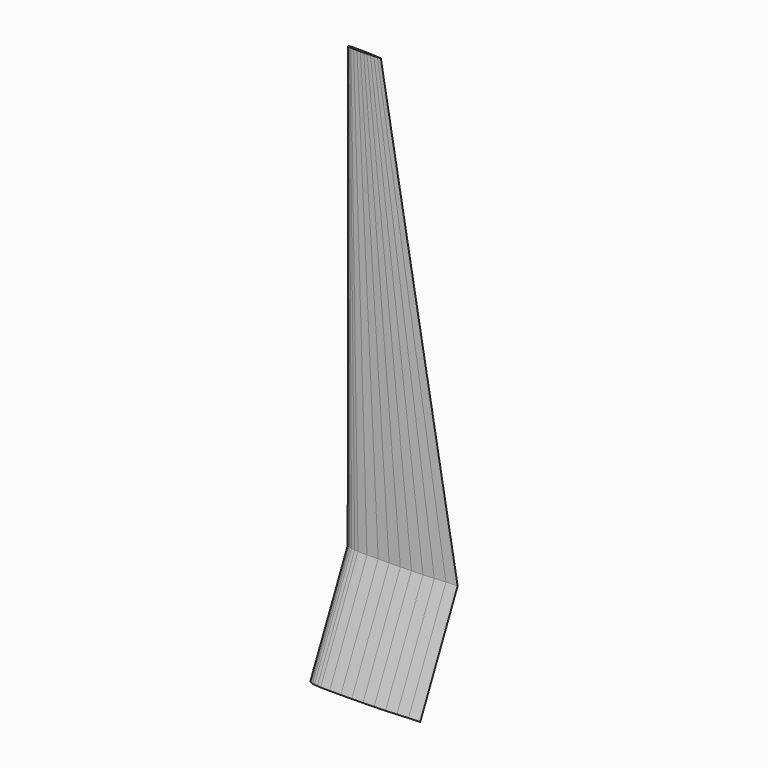
from build123d import *


with BuildPart() as f3:
    # F0 (on Top) → F3 section 0
    with BuildSketch(Plane.XY):
        with BuildLine():
            Line((25.4, -0.001455), (22.81751, 0.166512))
            Line((22.81751, 0.166512), (20.287512, 0.344977))
            Line((20.287512, 0.344977), (17.77562, 0.49516))
            Line((17.77562, 0.49516), (15.219171, 0.604156))
            Line((15.219171, 0.604156), (12.692447, 0.673517))
            Line((12.692447, 0.673517), (10.135998, 0.713151))
            Line((10.135998, 0.713151), (7.619184, 0.732969))
            Line((7.619184, 0.732969), (5.062734, 0.762695))
            Line((5.062734, 0.762695), (2.933788, 0.7116))
            Line((2.933788, 0.7116), (2.136214, 0.654492))
            Line((2.136214, 0.654492), (1.37156, 0.565414))
            Line((1.37156, 0.565414), (0.889012, 0.468913))
            Line((0.889012, 0.468913), (0.540092, 0.342719))
            ThreePointArc((0.540092, 0.342719), (0.251258, 0.200968), (0, 0))
            ThreePointArc((0, 0), (0.251235, -0.200997), (0.540053, -0.342781))
            Line((0.540053, -0.342781), (0.888958, -0.469015))
            Line((0.888958, -0.469015), (1.371495, -0.565571))
            Line((1.371495, -0.565571), (2.136139, -0.654736))
            Line((2.136139, -0.654736), (2.933707, -0.711936))
            Line((2.933707, -0.711936), (5.062647, -0.763275))
            Line((5.062647, -0.763275), (7.6191, -0.733842))
            Line((7.6191, -0.733842), (10.135916, -0.714313))
            Line((10.135916, -0.714313), (12.69237, -0.67497))
            Line((12.69237, -0.67497), (15.219101, -0.605899))
            Line((15.219101, -0.605899), (17.775563, -0.497196))
            Line((17.775563, -0.497196), (20.287473, -0.347301))
            Line((20.287473, -0.347301), (22.817491, -0.169126))
            Line((22.817491, -0.169126), (25.4, -0.001455))
        make_face()
    # F2 (on offset) → F3 section 1
    with BuildSketch(Plane.XY.offset(25.4)):
        with BuildLine():
            Line((7.602647, 6.856725), (10.1591, 6.886158))
            Line((10.1591, 6.886158), (12.675916, 6.905687))
            Line((12.675916, 6.905687), (15.23237, 6.94503))
            Line((15.23237, 6.94503), (17.759101, 7.014101))
            Line((17.759101, 7.014101), (20.315563, 7.122804))
            Line((20.315563, 7.122804), (22.827473, 7.272699))
            Line((22.827473, 7.272699), (25.357491, 7.450874))
            Line((25.357491, 7.450874), (27.94, 7.618545))
            Line((27.94, 7.618545), (25.35751, 7.786512))
            Line((25.35751, 7.786512), (22.827512, 7.964977))
            Line((22.827512, 7.964977), (20.31562, 8.11516))
            Line((20.31562, 8.11516), (17.759171, 8.224156))
            Line((17.759171, 8.224156), (15.232447, 8.293517))
            Line((15.232447, 8.293517), (12.675998, 8.333151))
            Line((12.675998, 8.333151), (10.159184, 8.352969))
            Line((10.159184, 8.352969), (7.602734, 8.382695))
            Line((7.602734, 8.382695), (5.473788, 8.3316))
            Line((5.473788, 8.3316), (4.676214, 8.274492))
            Line((4.676214, 8.274492), (3.91156, 8.185414))
            Line((3.91156, 8.185414), (3.429012, 8.088913))
            Line((3.429012, 8.088913), (3.080092, 7.962719))
            ThreePointArc((3.080092, 7.962719), (2.791258, 7.820968), (2.54, 7.62))
            ThreePointArc((2.54, 7.62), (2.791235, 7.419003), (3.080053, 7.277219))
            Line((3.080053, 7.277219), (3.428958, 7.150985))
            Line((3.428958, 7.150985), (3.911495, 7.054429))
            Line((3.911495, 7.054429), (4.676139, 6.965264))
            Line((4.676139, 6.965264), (5.473707, 6.908064))
            Line((5.473707, 6.908064), (7.602647, 6.856725))
        make_face()
    loft()

    # F5 (on offset) → F6 section 0
    with BuildSketch(Plane.XY.offset(127)):
        with BuildLine():
            Line((4.084847, 7.393458), (4.851783, 7.402288))
            Line((4.851783, 7.402288), (5.606828, 7.408147))
            Line((5.606828, 7.408147), (6.373764, 7.41995))
            Line((6.373764, 7.41995), (7.131783, 7.440671))
            Line((7.131783, 7.440671), (7.898722, 7.473282))
            Line((7.898722, 7.473282), (8.652295, 7.518251))
            Line((8.652295, 7.518251), (9.4113, 7.571703))
            Line((9.4113, 7.571703), (10.186053, 7.622005))
            Line((10.186053, 7.622005), (9.411306, 7.672395))
            Line((9.411306, 7.672395), (8.652307, 7.725934))
            Line((8.652307, 7.725934), (7.898739, 7.770989))
            Line((7.898739, 7.770989), (7.131804, 7.803688))
            Line((7.131804, 7.803688), (6.373787, 7.824496))
            Line((6.373787, 7.824496), (5.606852, 7.836386))
            Line((5.606852, 7.836386), (4.851808, 7.842332))
            Line((4.851808, 7.842332), (4.084873, 7.851249))
            Line((4.084873, 7.851249), (3.44619, 7.835921))
            Line((3.44619, 7.835921), (3.206917, 7.818788))
            Line((3.206917, 7.818788), (2.977521, 7.792065))
            Line((2.977521, 7.792065), (2.832757, 7.763115))
            Line((2.832757, 7.763115), (2.728081, 7.725257))
            ThreePointArc((2.728081, 7.725257), (2.64143, 7.682731), (2.566053, 7.622441))
            ThreePointArc((2.566053, 7.622441), (2.641424, 7.562142), (2.728069, 7.519607))
            Line((2.728069, 7.519607), (2.83274, 7.481737))
            Line((2.83274, 7.481737), (2.977502, 7.45277))
            Line((2.977502, 7.45277), (3.206895, 7.42602))
            Line((3.206895, 7.42602), (3.446165, 7.40886))
            Line((3.446165, 7.40886), (4.084847, 7.393458))
        make_face()
    # F2 (on offset) → F6 section 1
    with BuildSketch(Plane.XY.offset(25.4)):
        with BuildLine():
            Line((7.602647, 6.856725), (10.1591, 6.886158))
            Line((10.1591, 6.886158), (12.675916, 6.905687))
            Line((12.675916, 6.905687), (15.23237, 6.94503))
            Line((15.23237, 6.94503), (17.759101, 7.014101))
            Line((17.759101, 7.014101), (20.315563, 7.122804))
            Line((20.315563, 7.122804), (22.827473, 7.272699))
            Line((22.827473, 7.272699), (25.357491, 7.450874))
            Line((25.357491, 7.450874), (27.94, 7.618545))
            Line((27.94, 7.618545), (25.35751, 7.786512))
            Line((25.35751, 7.786512), (22.827512, 7.964977))
            Line((22.827512, 7.964977), (20.31562, 8.11516))
            Line((20.31562, 8.11516), (17.759171, 8.224156))
            Line((17.759171, 8.224156), (15.232447, 8.293517))
            Line((15.232447, 8.293517), (12.675998, 8.333151))
            Line((12.675998, 8.333151), (10.159184, 8.352969))
            Line((10.159184, 8.352969), (7.602734, 8.382695))
            Line((7.602734, 8.382695), (5.473788, 8.3316))
            Line((5.473788, 8.3316), (4.676214, 8.274492))
            Line((4.676214, 8.274492), (3.91156, 8.185414))
            Line((3.91156, 8.185414), (3.429012, 8.088913))
            Line((3.429012, 8.088913), (3.080092, 7.962719))
            ThreePointArc((3.080092, 7.962719), (2.791258, 7.820968), (2.54, 7.62))
            ThreePointArc((2.54, 7.62), (2.791235, 7.419003), (3.080053, 7.277219))
            Line((3.080053, 7.277219), (3.428958, 7.150985))
            Line((3.428958, 7.150985), (3.911495, 7.054429))
            Line((3.911495, 7.054429), (4.676139, 6.965264))
            Line((4.676139, 6.965264), (5.473707, 6.908064))
            Line((5.473707, 6.908064), (7.602647, 6.856725))
        make_face()
    loft()


solid = f3.part
